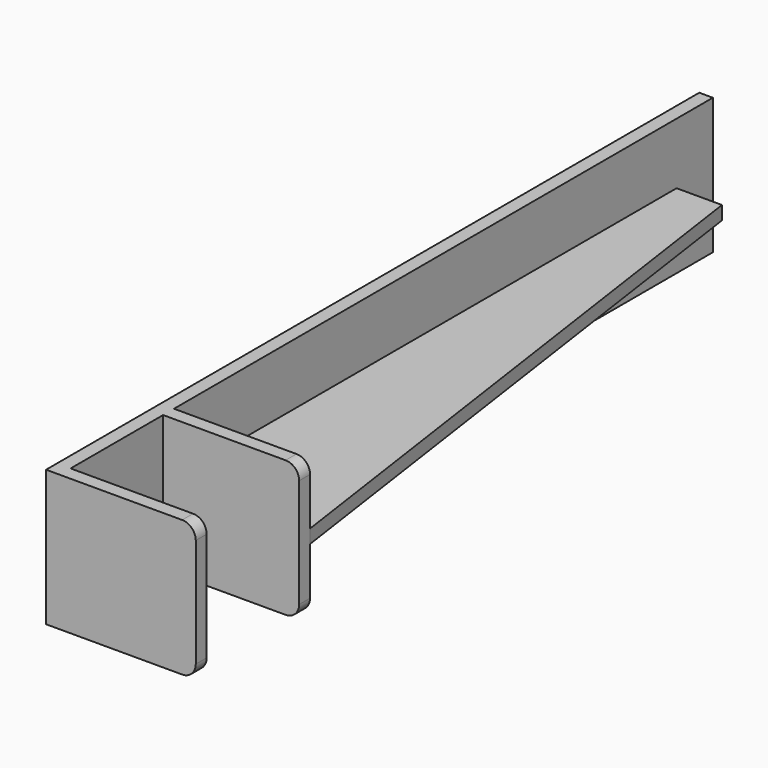
from build123d import *

# Parameters (mm, degrees)
F1_DEPTH = 15
F3_DEPTH = 1.5
F4_R     = 3


with BuildPart() as f1:
    # F0 (on Top) → F1 (new body, symmetric)
    with BuildSketch(Plane.XY):
        Polygon((0, 180), (0, 0), (33, 0), (33, 3), (3, 3), (3, 28.5), (33, 28.5), (33, 31.5), (3, 31.5), (3, 180), align=None)
    extrude(amount=F1_DEPTH, both=True)

    # F4
    f4_edges = [f1.edges().sort_by_distance(p)[0] for p in [
        (33, 30, 15),
        (33, 1.5, 15),
        (33, 30, -15),
        (33, 1.5, -15),
    ]]
    fillet(f4_edges, radius=F4_R)


with BuildPart() as f3:
    # F2 (on Top) → F3 (new body, symmetric)
    with BuildSketch(Plane.XY):
        Polygon((3, 31.5), (33, 31.5), (13, 170), (3, 170), align=None)
    extrude(amount=F3_DEPTH, both=True)


solid = Compound([f1.part, f3.part])
